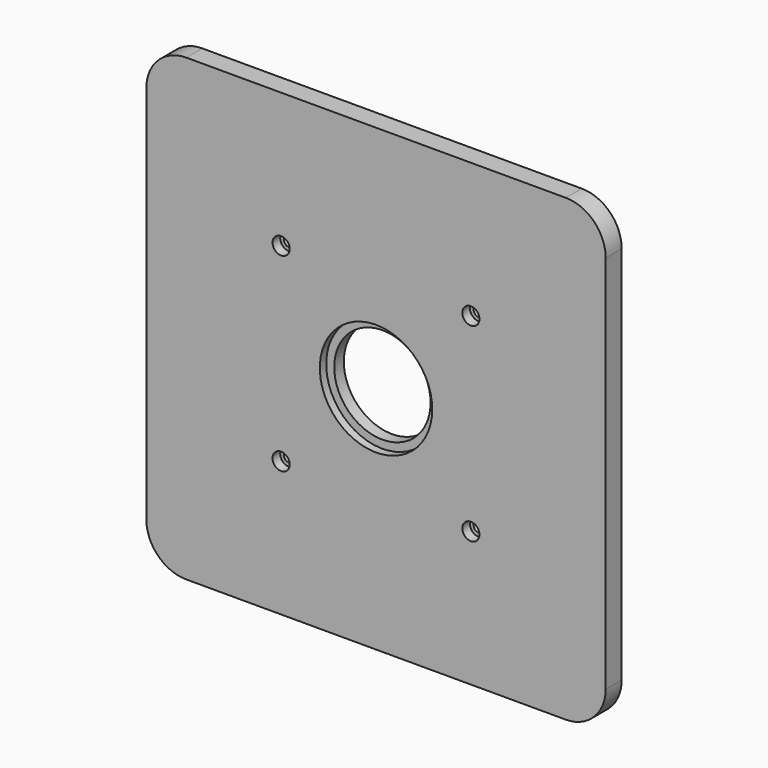
from build123d import *

# Parameters (mm, degrees)
F1_DEPTH = 6.35
F2_R     = 15.316097
F3_DEPTH = 6.35
F2_R_2   = 17.868779
F4_DEPTH = 2.54
F2_R_3   = 1.5875
F5_DEPTH = 6.35
F2_R_4   = 2.7305
F2_R_5   = 2.726201
F6_DEPTH = 3.048


with BuildPart() as f1:
    # F0 (on Front) → F1 (new body)
    with BuildSketch(Plane.XZ):
        with BuildLine():
            ThreePointArc((73.025, 60.325), (69.305256, 69.305256), (60.325, 73.025))
            Line((60.325, 73.025), (-60.325, 73.025))
            ThreePointArc((-60.325, 73.025), (-69.305256, 69.305256), (-73.025, 60.325))
            Line((-73.025, 60.325), (-73.025, -60.325))
            ThreePointArc((-73.025, -60.325), (-69.305256, -69.305256), (-60.325, -73.025))
            Line((-60.325, -73.025), (60.325, -73.025))
            ThreePointArc((60.325, -73.025), (69.305256, -69.305256), (73.025, -60.325))
            Line((73.025, -60.325), (73.025, 60.325))
        make_face()
    extrude(amount=F1_DEPTH)

    # F2 (on face) → F3 (cut)
    with BuildSketch(Plane.XZ.offset(6.35)):
        Circle(F2_R)
    extrude(amount=-F3_DEPTH, mode=Mode.SUBTRACT)

    # F2 (on face) → F4 (cut)
    with BuildSketch(Plane.XZ.offset(6.35)):
        Circle(F2_R_2)
        Circle(F2_R, mode=Mode.SUBTRACT)
    extrude(amount=-F4_DEPTH, mode=Mode.SUBTRACT)

    # F2 (on face) → F5 (cut)
    with BuildSketch(Plane.XZ.offset(6.35)):
        with Locations((30.1625, 30.1625)):
            Circle(F2_R_3)
        with Locations((30.1625, -30.1625)):
            Circle(F2_R_3)
        with Locations((-30.1625, 30.1625)):
            Circle(F2_R_3)
        with Locations((-30.1625, -30.1625)):
            Circle(F2_R_3)
    extrude(amount=-F5_DEPTH, mode=Mode.SUBTRACT)

    # F2 (on face) → F6 (cut)
    with BuildSketch(Plane.XZ.offset(6.35)):
        with Locations((-30.1625, -30.1625)):
            Circle(F2_R_4)
        with Locations((-30.1625, -30.1625)):
            Circle(F2_R_3, mode=Mode.SUBTRACT)
        with Locations((30.1625, -30.1625)):
            Circle(F2_R_4)
        with Locations((30.1625, -30.1625)):
            Circle(F2_R_3, mode=Mode.SUBTRACT)
        with Locations((30.1625, 30.1625)):
            Circle(F2_R_4)
        with Locations((30.1625, 30.1625)):
            Circle(F2_R_3, mode=Mode.SUBTRACT)
        with Locations((-30.1625, 30.1625)):
            Circle(F2_R_5)
        with Locations((-30.1625, 30.1625)):
            Circle(F2_R_3, mode=Mode.SUBTRACT)
    extrude(amount=-F6_DEPTH, mode=Mode.SUBTRACT)


solid = f1.part
